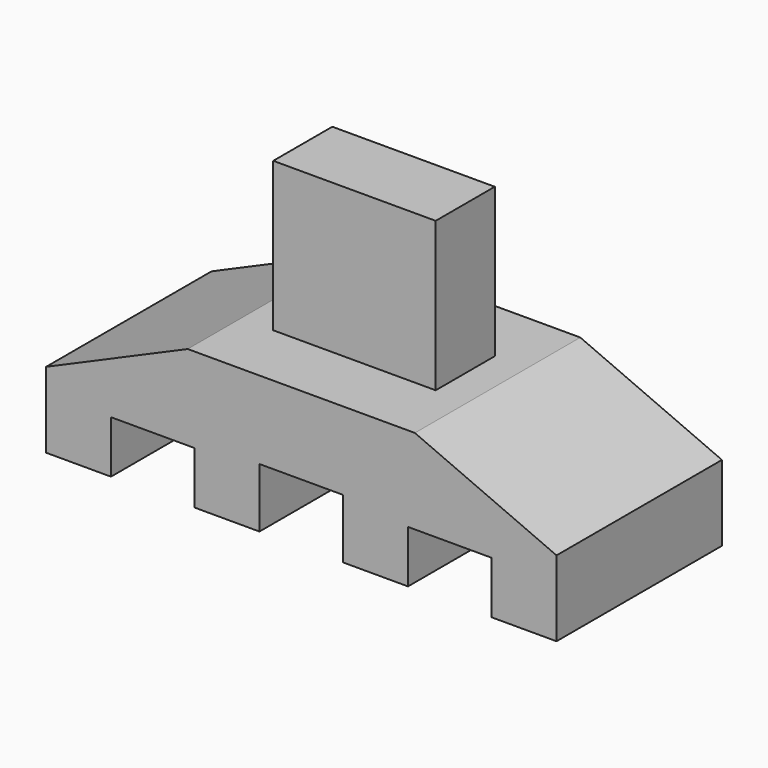
from build123d import *

# Parameters (mm, degrees)
F1_DEPTH = 35.56
F2_W     = 55.88
F2_H     = 51.323274
F3_DEPTH = 12.7


with BuildPart() as f1:
    # F0 (on Front) → F1 (new body, symmetric)
    with BuildSketch(Plane.XZ):
        Polygon((-87.795595, 12.35097), (-65.474896, 12.35097), (-65.474896, 30.374324), (-36.705431, 30.374324), (-36.705431, 12.35097), (-14.384733, 12.35097), (-14.384733, 32.803118), (14.384733, 32.803118), (14.384733, 12.35097), (36.705431, 12.35097), (36.705431, 30.374324), (65.474896, 30.374324), (65.474896, 12.35097), (87.795595, 12.35097), (87.795595, 38.365485), (39.074105, 59.600096), (0, 59.600096), (-39.074105, 59.600096), (-87.795595, 38.365485), align=None)
    extrude(amount=F1_DEPTH, both=True)


with BuildPart() as f3:
    # F2 (on Front) → F3 (new body, symmetric)
    with BuildSketch(Plane.XZ):
        with Locations((0, 85.261733)):
            Rectangle(F2_W, F2_H)
    extrude(amount=F3_DEPTH, both=True)


solid = Compound([f1.part, f3.part])
